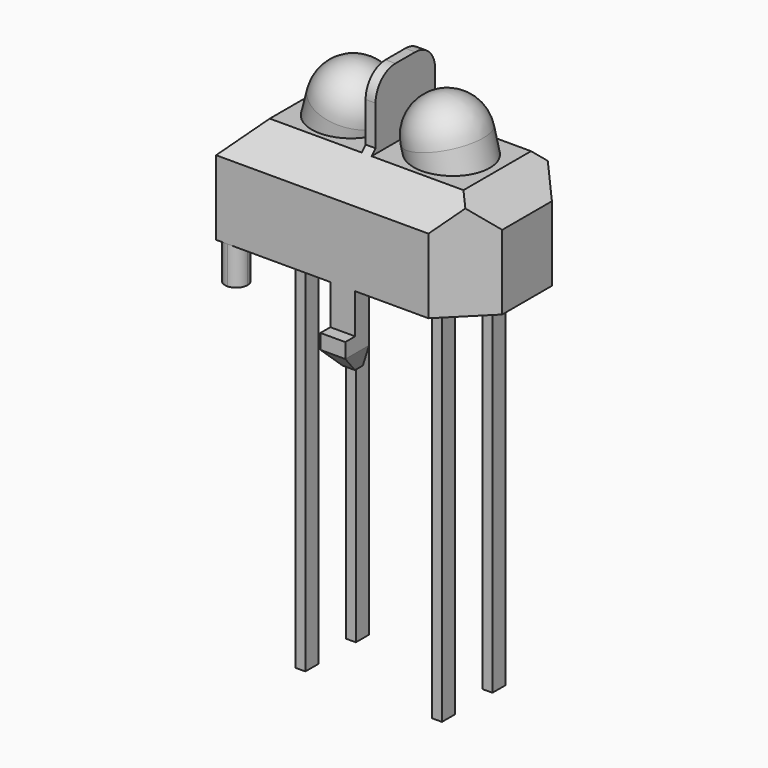
from build123d import *

# Parameters (mm, degrees)
F1_DEPTH = 5
F3_DEPTH = 12.5
F5_DEPTH = 1.5
F4_W     = 0.4
F4_H     = 0.65
F6_DEPTH = 15
F7_DEPTH = 7.001


with BuildPart() as f1:
    # F0 (on Front) → F1 (new body, symmetric)
    with BuildSketch(Plane.XZ):
        Polygon((-5.1, 3), (-5.1, 0), (-0.5, 0), (-0.5, -2.2), (-0.25, -3), (0.25, -3), (0.5, -2.2), (0.5, 0), (5.1, 0), (5.1, 3), (3.9, 4.2), (3.6009409723, 4.2), (2.05, 4.2), (0.4990590277, 4.2), (0.2, 4.2), (0.2, 7), (-0.2, 7), (-0.2, 4.2), (-0.4990590277, 4.2), (-2.05, 4.2), (-3.6009409723, 4.2), (-3.9, 4.2), align=None)
    extrude(amount=F1_DEPTH, both=True)

    # F2 (on Right) → F3 (intersect, symmetric)
    with BuildSketch(Plane.YZ):
        with BuildLine():
            Line((0.5, 7), (-0.5, 7))
            ThreePointArc((-0.5, 7), (-1.2071067812, 6.7071067812), (-1.5, 6))
            Line((-1.5, 6), (-1.5, 4.4))
            Line((-1.5, 4.4), (-2.9, 3))
            Line((-2.9, 3), (-2.9, -1.6))
            Line((-2.9, -1.6), (-3.4, -1.6))
            Line((-3.4, -1.6), (-3.4, -2.2))
            Line((-3.4, -2.2), (-2.6, -3))
            Line((-2.6, -3), (-2.2, -3))
            Line((-2.2, -3), (-2.2, 0))
            Line((-2.2, 0), (2.2, 0))
            Line((2.2, 0), (2.2, -3))
            Line((2.2, -3), (2.6, -3))
            Line((2.6, -3), (3.4, -2.2))
            Line((3.4, -2.2), (3.4, -1.6))
            Line((3.4, -1.6), (2.9, -1.6))
            Line((2.9, -1.6), (2.9, 3))
            Line((2.9, 3), (1.5, 4.4))
            Line((1.5, 4.4), (1.5, 6))
            ThreePointArc((1.5, 6), (1.2071067812, 6.7071067812), (0.5, 7))
        make_face()
    extrude(amount=F3_DEPTH, both=True, mode=Mode.INTERSECT)

    # F4 (on face) → F5 (join)
    with BuildSketch(Plane(origin=(0, 0, 0), x_dir=(1, 0, 0), z_dir=(0, 0, -1))):
        with BuildLine():
            ThreePointArc((-5.1, 2.45), (-4.65, 2), (-4.2, 2.45))
            ThreePointArc((-4.2, 2.45), (-4.3318019485, 2.7681980515), (-4.65, 2.9))
            ThreePointArc((-4.65, 2.9), (-4.9681980515, 2.7681980515), (-5.1, 2.45))
        make_face()
    extrude(amount=F5_DEPTH)

    # F4 (on face) → F6 (join)
    with BuildSketch(Plane(origin=(0, 0, 0), x_dir=(1, 0, 0), z_dir=(0, 0, -1))):
        with Locations((-2.75, 1.27)):
            Rectangle(F4_W, F4_H)
        with Locations((-2.75, -1.27)):
            Rectangle(F4_W, F4_H)
        with Locations((2.75, -1.27)):
            Rectangle(F4_W, F4_H)
        with Locations((2.75, 1.27)):
            Rectangle(F4_W, F4_H)
    extrude(amount=F6_DEPTH)

    # F4 (on face) → F7 (cut, through all)
    with BuildSketch(Plane(origin=(0, 0, 0), x_dir=(1, 0, 0), z_dir=(0, 0, -1))):
        Polygon((5.1, 2.9), (3.45, 2.9), (5.1, 1.25), align=None)
        Polygon((5.1, -1.25), (3.45, -2.9), (5.1, -2.9), align=None)
    extrude(amount=-F7_DEPTH, mode=Mode.SUBTRACT)

    # F0 (on Front) → F8 (revolve)
    with BuildSketch(Plane.XZ):
        with BuildLine():
            Line((-3.3430398867, 5.1812821793), (-3.6009409723, 4.2))
            Line((-3.6009409723, 4.2), (-2.05, 4.2))
            Line((-2.05, 4.2), (-1.511025513, 6.2507321944))
            ThreePointArc((-1.511025513, 6.2507321944), (-2.6485230501, 6.0954297868), (-3.3430398867, 5.1812821793))
        make_face()
    revolve(axis=Axis((-1.025, 0, 8.1), (0.2541881195, 0, 0.9671547962)))

    # F0 (on Front) → F9 (revolve)
    with BuildSketch(Plane.XZ):
        with BuildLine():
            Line((2.05, 4.2), (3.6009409723, 4.2))
            Line((3.6009409723, 4.2), (3.3430398867, 5.1812821793))
            ThreePointArc((3.3430398867, 5.1812821793), (2.6485230501, 6.0954297868), (1.511025513, 6.2507321944))
            Line((1.511025513, 6.2507321944), (2.05, 4.2))
        make_face()
    revolve(axis=Axis((1.7805127565, 0, 5.2253660972), (0.2541881195, 0, -0.9671547962)))


solid = f1.part
